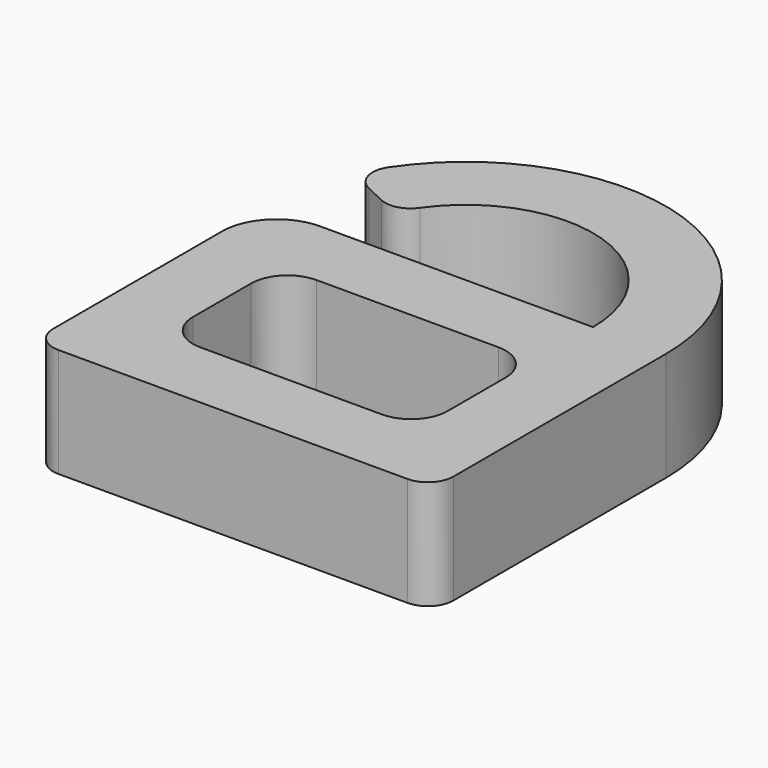
from build123d import *

# Parameters (mm, degrees)
F1_DEPTH = 3


with BuildPart() as f1:
    # F0 (on Top) → F1 (new body)
    with BuildSketch(Plane.XY):
        with BuildLine():
            Line((3.5, 0), (-4, 0))
            ThreePointArc((-4, 0), (-5.06066, -0.43934), (-5.5, -1.5))
            Line((-5.5, -1.5), (-5.5, -7.3))
            ThreePointArc((-5.5, -7.3), (-5.294975, -7.794975), (-4.8, -8))
            Line((-4.8, -8), (4.8, -8))
            ThreePointArc((4.8, -8), (5.294975, -7.794975), (5.5, -7.3))
            Line((5.5, -7.3), (5.5, 0))
            ThreePointArc((5.5, 0), (1.597139, 5.262998), (-4.572418, 3.056632))
            ThreePointArc((-4.572418, 3.056632), (-4.665242, 2.48136), (-4.290474, 2.03515))
            Line((-4.290474, 2.03515), (-3.741657, 1.774824))
            ThreePointArc((-3.741657, 1.774824), (-3.262538, 1.730584), (-2.868048, 2.006066))
            ThreePointArc((-2.868048, 2.006066), (1.051626, 3.338276), (3.5, 0))
        make_face()
        with BuildLine():
            Line((2.5, -6), (-2.5, -6))
            ThreePointArc((-2.5, -6), (-3.207107, -5.707107), (-3.5, -5))
            Line((-3.5, -5), (-3.5, -3))
            ThreePointArc((-3.5, -3), (-3.207107, -2.292893), (-2.5, -2))
            Line((-2.5, -2), (2.5, -2))
            ThreePointArc((2.5, -2), (3.207107, -2.292893), (3.5, -3))
            Line((3.5, -3), (3.5, -5))
            ThreePointArc((3.5, -5), (3.207107, -5.707107), (2.5, -6))
        make_face(mode=Mode.SUBTRACT)
    extrude(amount=F1_DEPTH)


solid = f1.part
